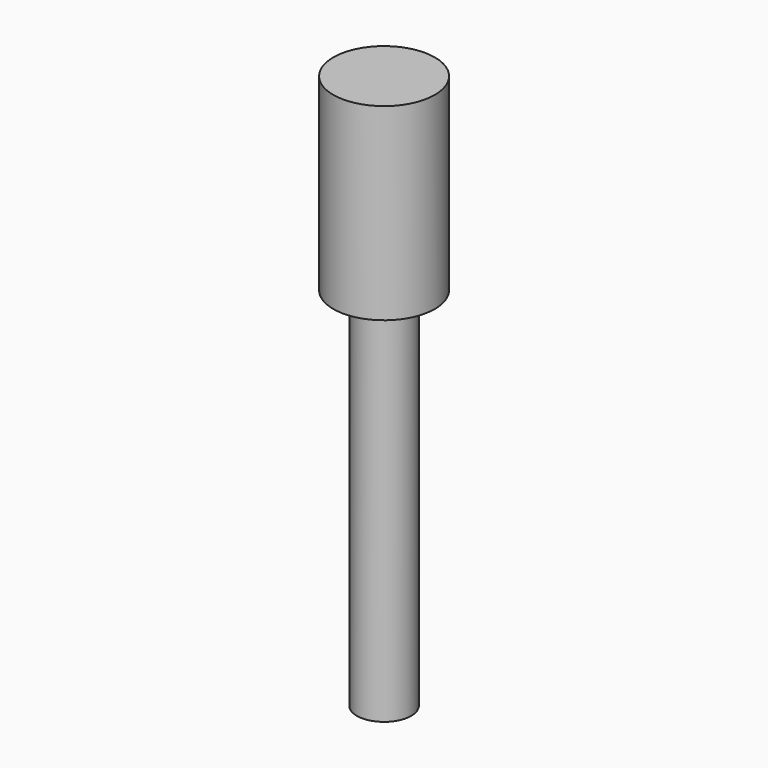
from build123d import *

# Parameters (mm, degrees)
F0_R     = 18.476529
F1_DEPTH = 68.58
F2_R     = 9.872587
F2_R_2   = 7.129241
F3_DEPTH = 201.676


with BuildPart() as f1:
    # F0 (on Top) → F1 (new body)
    with BuildSketch(Plane.XY):
        Circle(F0_R)
    extrude(amount=F1_DEPTH)

    # F2 (on face) → F3 (join)
    with BuildSketch(Plane.XY.offset(68.58)):
        Circle(F2_R)
        Circle(F2_R_2, mode=Mode.SUBTRACT)
    extrude(amount=-F3_DEPTH)


solid = f1.part
